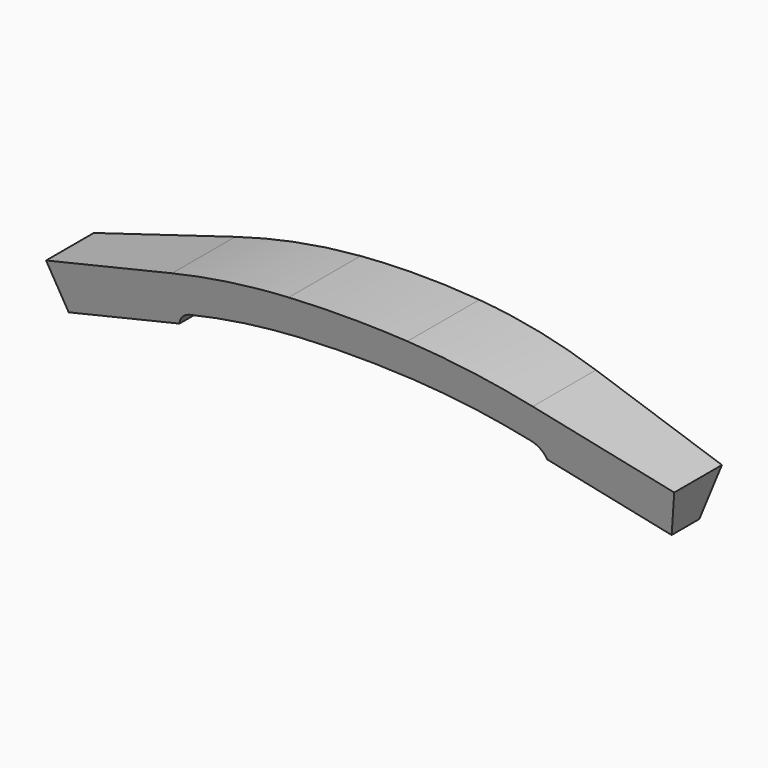
from build123d import *

# Parameters (mm, degrees)
F1_DEPTH = 15
F3_DEPTH = 100
F5_DEPTH = 12.5


with BuildPart() as f1:
    # F0 (on Front) → F1 (new body, symmetric)
    with BuildSketch(Plane.XZ):
        with BuildLine():
            ThreePointArc((37.317329624, 30.4986087275), (24.902598062, 33.210330732), (12.2824249303, 34.6970136545))
            ThreePointArc((12.2824249303, 34.6970136545), (0, 35.1170361544), (-12.2824249303, 34.6970136545))
            ThreePointArc((-12.2824249303, 34.6970136545), (-24.902598062, 33.210330732), (-37.317329624, 30.4986087275))
            Line((-37.317329624, 30.4986087275), (-65, 23.01738))
            Line((-65, 23.01738), (-62.3910963169, 13.3636956478))
            Line((-62.3910963169, 13.3636956478), (-34.7084259409, 20.8449243753))
            ThreePointArc((-34.7084259409, 20.8449243753), (-23.2486737298, 23.3480523794), (-11.5992831467, 24.7203750772))
            ThreePointArc((-11.5992831467, 24.7203750772), (0, 25.1170361544), (11.5992831467, 24.7203750772))
            ThreePointArc((11.5992831467, 24.7203750772), (23.2486737298, 23.3480523794), (34.7084259409, 20.8449243753))
            Line((34.7084259409, 20.8449243753), (62.3910963169, 13.3636956478))
            Line((62.3910963169, 13.3636956478), (65, 23.01738))
            Line((65, 23.01738), (37.317329624, 30.4986087275))
        make_face()
    extrude(amount=F1_DEPTH, both=True)

    # F2 (on Right) → F3 (cut, symmetric)
    with BuildSketch(Plane.YZ):
        Polygon((-1.875644347, 7), (-17, 63.4448637287), (-17, 0), (0, 0), (17, 0), (17, 63.4448637287), (1.875644347, 7), align=None)
    extrude(amount=F3_DEPTH, both=True, mode=Mode.SUBTRACT)

    # F4 (on Front) → F5 (cut, symmetric)
    with BuildSketch(Plane.XZ):
        with BuildLine():
            ThreePointArc((11.7359115034, 26.7157027926), (0, 27.1170361544), (-11.7359115034, 26.7157027926))
            ThreePointArc((-11.7359115034, 26.7157027926), (-23.5794585962, 25.32050805), (-35.2302066775, 22.7756612458))
            ThreePointArc((-35.2302066775, 22.7756612458), (-37.021132821, 21.7365411239), (-38.0525602966, 19.9411736291))
            Line((-38.0525602966, 19.9411736291), (-34.7084259409, 20.8449243753))
            ThreePointArc((-34.7084259409, 20.8449243753), (-23.2486737298, 23.3480523794), (-11.5992831467, 24.7203750772))
            ThreePointArc((-11.5992831467, 24.7203750772), (0, 25.1170361544), (11.5992831467, 24.7203750772))
            ThreePointArc((11.5992831467, 24.7203750772), (23.2486737298, 23.3480523794), (34.7084259409, 20.8449243753))
            Line((34.7084259409, 20.8449243753), (38.0525602966, 19.9411736291))
            ThreePointArc((38.0525602966, 19.9411736291), (37.021132821, 21.7365411239), (35.2302066775, 22.7756612458))
            ThreePointArc((35.2302066775, 22.7756612458), (23.5794585962, 25.32050805), (11.7359115034, 26.7157027927))
        make_face()
    extrude(amount=F5_DEPTH, both=True, mode=Mode.SUBTRACT)


solid = f1.part
